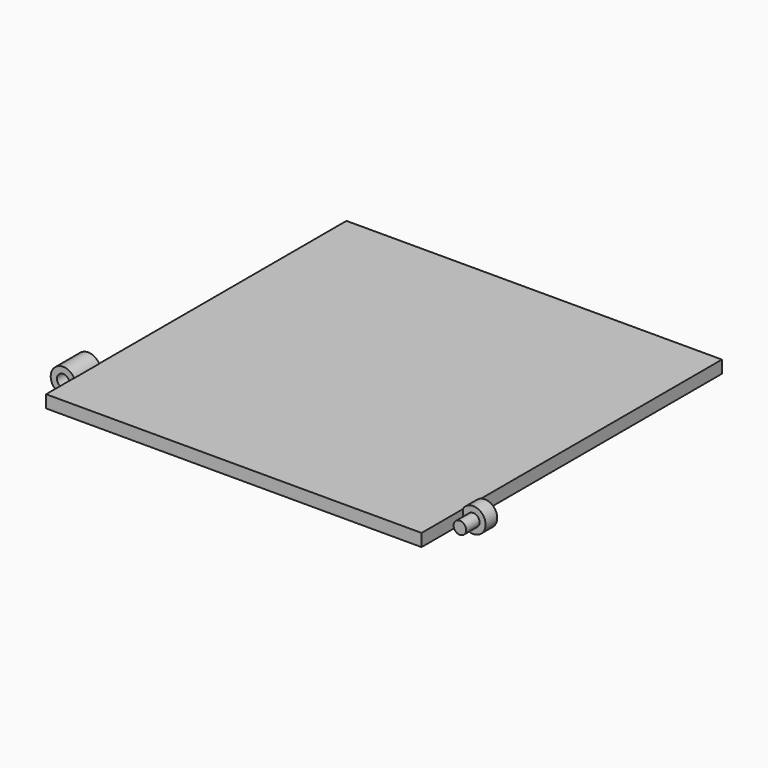
from build123d import *

# Parameters (mm, degrees)
F0_W     = 300
F0_H     = 300
F1_DEPTH = 10
F2_R     = 10
F2_R_2   = 5
F2_R_3   = 9.83343
F3_DEPTH = 25
F4_R     = 5
F5_DEPTH = 13.4


with BuildPart() as f1:
    # F0 (on Top) → F1 (new body)
    with BuildSketch(Plane.XY):
        with Locations((-93.317212, 97.135217)):
            Rectangle(F0_W, F0_H)
    extrude(amount=F1_DEPTH)

    # F2 (on Front) → F3 (join)
    with BuildSketch(Plane.XZ):
        with Locations((-251.922578, 5.191812)):
            Circle(F2_R)
        with Locations((-251.922578, 5.191812)):
            Circle(F2_R_2, mode=Mode.SUBTRACT)
        with Locations((64.999998, 5)):
            Circle(F2_R_3)
    extrude(amount=F3_DEPTH)

    # F4 (on face) → F5 (cut)
    with BuildSketch(Plane.XZ.offset(25)):
        with BuildLine():
            Line((56.682788, 10), (56.682788, 0))
            Line((56.682788, 0), (56.532628, 0))
            ThreePointArc((56.532628, 0), (74.833428, 5.000001), (56.532628, 10))
            Line((56.532628, 10), (56.682788, 10))
        make_face()
        with Locations((64.999998, 5)):
            Circle(F4_R, mode=Mode.SUBTRACT)
    extrude(amount=-F5_DEPTH, mode=Mode.SUBTRACT)


solid = f1.part
